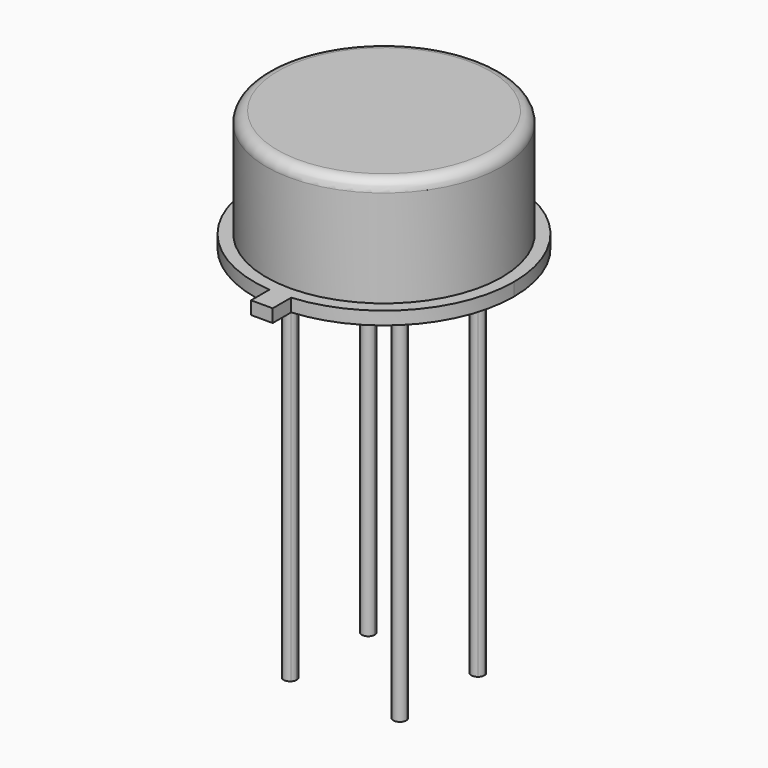
from build123d import *

# Parameters (mm, degrees)
F0_R     = 4.075
F1_DEPTH = 0.45
F2_DEPTH = 4.2
F3_DEPTH = 13
F4_R     = 0.38627417


with BuildPart() as f1:
    # F0 (on Top) → F1 (new body)
    with BuildSketch(Plane.XY):
        with BuildLine():
            ThreePointArc((0.375, -4.4843477787), (3.3119103249, -3.0465144017), (4.5, 0))
            ThreePointArc((4.5, 0), (-3.0465144017, 3.3119103249), (-0.375, -4.4843477787))
            ThreePointArc((-0.375, -4.4843477787), (0, -4.5), (0.375, -4.4843477787))
        make_face()
        Circle(F0_R, mode=Mode.SUBTRACT)
        Circle(F0_R)
        with BuildLine():
            ThreePointArc((2.0395831107, 1.5138364292), (2.4116530743, 0.7972010094), (2.54, 0))
            ThreePointArc((2.54, 0), (2.4116530743, -0.7972010094), (2.0395831107, -1.5138364292))
            ThreePointArc((2.0395831107, -1.5138364292), (2.1007978618, -1.5917433661), (2.1226128319, -1.6883914061))
            ThreePointArc((2.1226128319, -1.6883914061), (1.9851666901, -1.8956577128), (1.7407521927, -1.8496977601))
            ThreePointArc((1.7407521927, -1.8496977601), (0, -2.54), (-1.7407521927, -1.8496977601))
            ThreePointArc((-1.7407521927, -1.8496977601), (-2.0657084568, -1.8379536369), (-2.0395831107, -1.5138364292))
            ThreePointArc((-2.0395831107, -1.5138364292), (-2.54, 0), (-2.0395831107, 1.5138364292))
            ThreePointArc((-2.0395831107, 1.5138364292), (-2.0657084568, 1.8379536369), (-1.7407521927, 1.8496977601))
            ThreePointArc((-1.7407521927, 1.8496977601), (0, 2.54), (1.7407521927, 1.8496977601))
            ThreePointArc((1.7407521927, 1.8496977601), (1.9851666901, 1.8956577128), (2.1226128319, 1.6883914061))
            ThreePointArc((2.1226128319, 1.6883914061), (2.1007978618, 1.5917433661), (2.0395831107, 1.5138364292))
        make_face(mode=Mode.SUBTRACT)
        with BuildLine():
            ThreePointArc((2.0395831107, -1.5138364292), (2.4116530743, -0.7972010094), (2.54, 0))
            ThreePointArc((2.54, 0), (2.4116530743, 0.7972010094), (2.0395831107, 1.5138364292))
            ThreePointArc((2.0395831107, 1.5138364292), (1.729517207, 1.5388291752), (1.7407521927, 1.8496977601))
            ThreePointArc((1.7407521927, 1.8496977601), (0, 2.54), (-1.7407521927, 1.8496977601))
            ThreePointArc((-1.7407521927, 1.8496977601), (-1.6903465252, 1.7759452643), (-1.6726128319, 1.6883914061))
            ThreePointArc((-1.6726128319, 1.6883914061), (-1.8009647919, 1.4852063762), (-2.0395831107, 1.5138364292))
            ThreePointArc((-2.0395831107, 1.5138364292), (-2.54, 0), (-2.0395831107, -1.5138364292))
            ThreePointArc((-2.0395831107, -1.5138364292), (-1.8009647919, -1.4852063762), (-1.6726128319, -1.6883914061))
            ThreePointArc((-1.6726128319, -1.6883914061), (-1.6903465252, -1.7759452643), (-1.7407521927, -1.8496977601))
            ThreePointArc((-1.7407521927, -1.8496977601), (0, -2.54), (1.7407521927, -1.8496977601))
            ThreePointArc((1.7407521927, -1.8496977601), (1.729517207, -1.5388291752), (2.0395831107, -1.5138364292))
        make_face()
        with BuildLine():
            ThreePointArc((0.375, -4.4843477787), (0, -4.5), (-0.375, -4.4843477787))
            Line((-0.375, -4.4843477787), (-0.375, -5.2843477787))
            Line((-0.375, -5.2843477787), (0.375, -5.2843477787))
            Line((0.375, -5.2843477787), (0.375, -4.4843477787))
        make_face()
        with BuildLine():
            ThreePointArc((-2.0395831107, 1.5138364292), (-1.8976128319, 1.6883914061), (-1.7407521927, 1.8496977601))
            ThreePointArc((-1.7407521927, 1.8496977601), (-2.0657084568, 1.8379536369), (-2.0395831107, 1.5138364292))
        make_face()
        with BuildLine():
            ThreePointArc((1.7407521927, 1.8496977601), (1.8976128319, 1.6883914061), (2.0395831107, 1.5138364292))
            ThreePointArc((2.0395831107, 1.5138364292), (2.1007978618, 1.5917433661), (2.1226128319, 1.6883914061))
            ThreePointArc((2.1226128319, 1.6883914061), (1.9851666901, 1.8956577128), (1.7407521927, 1.8496977601))
        make_face()
        with BuildLine():
            ThreePointArc((2.1226128319, -1.6883914061), (2.1007978618, -1.5917433661), (2.0395831107, -1.5138364292))
            ThreePointArc((2.0395831107, -1.5138364292), (1.8976128319, -1.6883914061), (1.7407521927, -1.8496977601))
            ThreePointArc((1.7407521927, -1.8496977601), (1.9851666901, -1.8956577128), (2.1226128319, -1.6883914061))
        make_face()
        with BuildLine():
            ThreePointArc((-2.0395831107, -1.5138364292), (-2.0657084568, -1.8379536369), (-1.7407521927, -1.8496977601))
            ThreePointArc((-1.7407521927, -1.8496977601), (-1.8976128319, -1.6883914061), (-2.0395831107, -1.5138364292))
        make_face()
        with BuildLine():
            ThreePointArc((-1.6726128319, 1.6883914061), (-1.6903465252, 1.7759452643), (-1.7407521927, 1.8496977601))
            ThreePointArc((-1.7407521927, 1.8496977601), (-1.8976128319, 1.6883914061), (-2.0395831107, 1.5138364292))
            ThreePointArc((-2.0395831107, 1.5138364292), (-1.8009647919, 1.4852063762), (-1.6726128319, 1.6883914061))
        make_face()
        with BuildLine():
            ThreePointArc((1.7407521927, 1.8496977601), (1.729517207, 1.5388291752), (2.0395831107, 1.5138364292))
            ThreePointArc((2.0395831107, 1.5138364292), (1.8976128319, 1.6883914061), (1.7407521927, 1.8496977601))
        make_face()
        with BuildLine():
            ThreePointArc((1.7407521927, -1.8496977601), (1.8976128319, -1.6883914061), (2.0395831107, -1.5138364292))
            ThreePointArc((2.0395831107, -1.5138364292), (1.729517207, -1.5388291752), (1.7407521927, -1.8496977601))
        make_face()
        with BuildLine():
            ThreePointArc((-2.0395831107, -1.5138364292), (-1.8976128319, -1.6883914061), (-1.7407521927, -1.8496977601))
            ThreePointArc((-1.7407521927, -1.8496977601), (-1.6903465252, -1.7759452643), (-1.6726128319, -1.6883914061))
            ThreePointArc((-1.6726128319, -1.6883914061), (-1.8009647919, -1.4852063762), (-2.0395831107, -1.5138364292))
        make_face()
    extrude(amount=F1_DEPTH)

    # F0 (on Top) → F2 (join)
    with BuildSketch(Plane.XY):
        Circle(F0_R)
        with BuildLine():
            ThreePointArc((2.0395831107, 1.5138364292), (2.4116530743, 0.7972010094), (2.54, 0))
            ThreePointArc((2.54, 0), (2.4116530743, -0.7972010094), (2.0395831107, -1.5138364292))
            ThreePointArc((2.0395831107, -1.5138364292), (2.1007978618, -1.5917433661), (2.1226128319, -1.6883914061))
            ThreePointArc((2.1226128319, -1.6883914061), (1.9851666901, -1.8956577128), (1.7407521927, -1.8496977601))
            ThreePointArc((1.7407521927, -1.8496977601), (0, -2.54), (-1.7407521927, -1.8496977601))
            ThreePointArc((-1.7407521927, -1.8496977601), (-2.0657084568, -1.8379536369), (-2.0395831107, -1.5138364292))
            ThreePointArc((-2.0395831107, -1.5138364292), (-2.54, 0), (-2.0395831107, 1.5138364292))
            ThreePointArc((-2.0395831107, 1.5138364292), (-2.0657084568, 1.8379536369), (-1.7407521927, 1.8496977601))
            ThreePointArc((-1.7407521927, 1.8496977601), (0, 2.54), (1.7407521927, 1.8496977601))
            ThreePointArc((1.7407521927, 1.8496977601), (1.9851666901, 1.8956577128), (2.1226128319, 1.6883914061))
            ThreePointArc((2.1226128319, 1.6883914061), (2.1007978618, 1.5917433661), (2.0395831107, 1.5138364292))
        make_face(mode=Mode.SUBTRACT)
        with BuildLine():
            ThreePointArc((2.0395831107, -1.5138364292), (2.4116530743, -0.7972010094), (2.54, 0))
            ThreePointArc((2.54, 0), (2.4116530743, 0.7972010094), (2.0395831107, 1.5138364292))
            ThreePointArc((2.0395831107, 1.5138364292), (1.729517207, 1.5388291752), (1.7407521927, 1.8496977601))
            ThreePointArc((1.7407521927, 1.8496977601), (0, 2.54), (-1.7407521927, 1.8496977601))
            ThreePointArc((-1.7407521927, 1.8496977601), (-1.6903465252, 1.7759452643), (-1.6726128319, 1.6883914061))
            ThreePointArc((-1.6726128319, 1.6883914061), (-1.8009647919, 1.4852063762), (-2.0395831107, 1.5138364292))
            ThreePointArc((-2.0395831107, 1.5138364292), (-2.54, 0), (-2.0395831107, -1.5138364292))
            ThreePointArc((-2.0395831107, -1.5138364292), (-1.8009647919, -1.4852063762), (-1.6726128319, -1.6883914061))
            ThreePointArc((-1.6726128319, -1.6883914061), (-1.6903465252, -1.7759452643), (-1.7407521927, -1.8496977601))
            ThreePointArc((-1.7407521927, -1.8496977601), (0, -2.54), (1.7407521927, -1.8496977601))
            ThreePointArc((1.7407521927, -1.8496977601), (1.729517207, -1.5388291752), (2.0395831107, -1.5138364292))
        make_face()
        with BuildLine():
            ThreePointArc((1.7407521927, 1.8496977601), (1.8976128319, 1.6883914061), (2.0395831107, 1.5138364292))
            ThreePointArc((2.0395831107, 1.5138364292), (2.1007978618, 1.5917433661), (2.1226128319, 1.6883914061))
            ThreePointArc((2.1226128319, 1.6883914061), (1.9851666901, 1.8956577128), (1.7407521927, 1.8496977601))
        make_face()
        with BuildLine():
            ThreePointArc((1.7407521927, 1.8496977601), (1.729517207, 1.5388291752), (2.0395831107, 1.5138364292))
            ThreePointArc((2.0395831107, 1.5138364292), (1.8976128319, 1.6883914061), (1.7407521927, 1.8496977601))
        make_face()
        with BuildLine():
            ThreePointArc((-2.0395831107, -1.5138364292), (-1.8976128319, -1.6883914061), (-1.7407521927, -1.8496977601))
            ThreePointArc((-1.7407521927, -1.8496977601), (-1.6903465252, -1.7759452643), (-1.6726128319, -1.6883914061))
            ThreePointArc((-1.6726128319, -1.6883914061), (-1.8009647919, -1.4852063762), (-2.0395831107, -1.5138364292))
        make_face()
        with BuildLine():
            ThreePointArc((-2.0395831107, 1.5138364292), (-1.8976128319, 1.6883914061), (-1.7407521927, 1.8496977601))
            ThreePointArc((-1.7407521927, 1.8496977601), (-2.0657084568, 1.8379536369), (-2.0395831107, 1.5138364292))
        make_face()
        with BuildLine():
            ThreePointArc((-1.6726128319, 1.6883914061), (-1.6903465252, 1.7759452643), (-1.7407521927, 1.8496977601))
            ThreePointArc((-1.7407521927, 1.8496977601), (-1.8976128319, 1.6883914061), (-2.0395831107, 1.5138364292))
            ThreePointArc((-2.0395831107, 1.5138364292), (-1.8009647919, 1.4852063762), (-1.6726128319, 1.6883914061))
        make_face()
        with BuildLine():
            ThreePointArc((2.1226128319, -1.6883914061), (2.1007978618, -1.5917433661), (2.0395831107, -1.5138364292))
            ThreePointArc((2.0395831107, -1.5138364292), (1.8976128319, -1.6883914061), (1.7407521927, -1.8496977601))
            ThreePointArc((1.7407521927, -1.8496977601), (1.9851666901, -1.8956577128), (2.1226128319, -1.6883914061))
        make_face()
        with BuildLine():
            ThreePointArc((1.7407521927, -1.8496977601), (1.8976128319, -1.6883914061), (2.0395831107, -1.5138364292))
            ThreePointArc((2.0395831107, -1.5138364292), (1.729517207, -1.5388291752), (1.7407521927, -1.8496977601))
        make_face()
        with BuildLine():
            ThreePointArc((-2.0395831107, -1.5138364292), (-2.0657084568, -1.8379536369), (-1.7407521927, -1.8496977601))
            ThreePointArc((-1.7407521927, -1.8496977601), (-1.8976128319, -1.6883914061), (-2.0395831107, -1.5138364292))
        make_face()
    extrude(amount=F2_DEPTH)

    # F0 (on Top) → F3 (join)
    with BuildSketch(Plane.XY):
        with BuildLine():
            ThreePointArc((1.7407521927, 1.8496977601), (1.8976128319, 1.6883914061), (2.0395831107, 1.5138364292))
            ThreePointArc((2.0395831107, 1.5138364292), (2.1007978618, 1.5917433661), (2.1226128319, 1.6883914061))
            ThreePointArc((2.1226128319, 1.6883914061), (1.9851666901, 1.8956577128), (1.7407521927, 1.8496977601))
        make_face()
        with BuildLine():
            ThreePointArc((1.7407521927, 1.8496977601), (1.729517207, 1.5388291752), (2.0395831107, 1.5138364292))
            ThreePointArc((2.0395831107, 1.5138364292), (1.8976128319, 1.6883914061), (1.7407521927, 1.8496977601))
        make_face()
        with BuildLine():
            ThreePointArc((2.1226128319, -1.6883914061), (2.1007978618, -1.5917433661), (2.0395831107, -1.5138364292))
            ThreePointArc((2.0395831107, -1.5138364292), (1.8976128319, -1.6883914061), (1.7407521927, -1.8496977601))
            ThreePointArc((1.7407521927, -1.8496977601), (1.9851666901, -1.8956577128), (2.1226128319, -1.6883914061))
        make_face()
        with BuildLine():
            ThreePointArc((1.7407521927, -1.8496977601), (1.8976128319, -1.6883914061), (2.0395831107, -1.5138364292))
            ThreePointArc((2.0395831107, -1.5138364292), (1.729517207, -1.5388291752), (1.7407521927, -1.8496977601))
        make_face()
        with BuildLine():
            ThreePointArc((-1.6726128319, 1.6883914061), (-1.6903465252, 1.7759452643), (-1.7407521927, 1.8496977601))
            ThreePointArc((-1.7407521927, 1.8496977601), (-1.8976128319, 1.6883914061), (-2.0395831107, 1.5138364292))
            ThreePointArc((-2.0395831107, 1.5138364292), (-1.8009647919, 1.4852063762), (-1.6726128319, 1.6883914061))
        make_face()
        with BuildLine():
            ThreePointArc((-2.0395831107, 1.5138364292), (-1.8976128319, 1.6883914061), (-1.7407521927, 1.8496977601))
            ThreePointArc((-1.7407521927, 1.8496977601), (-2.0657084568, 1.8379536369), (-2.0395831107, 1.5138364292))
        make_face()
        with BuildLine():
            ThreePointArc((-2.0395831107, -1.5138364292), (-1.8976128319, -1.6883914061), (-1.7407521927, -1.8496977601))
            ThreePointArc((-1.7407521927, -1.8496977601), (-1.6903465252, -1.7759452643), (-1.6726128319, -1.6883914061))
            ThreePointArc((-1.6726128319, -1.6883914061), (-1.8009647919, -1.4852063762), (-2.0395831107, -1.5138364292))
        make_face()
        with BuildLine():
            ThreePointArc((-2.0395831107, -1.5138364292), (-2.0657084568, -1.8379536369), (-1.7407521927, -1.8496977601))
            ThreePointArc((-1.7407521927, -1.8496977601), (-1.8976128319, -1.6883914061), (-2.0395831107, -1.5138364292))
        make_face()
    extrude(amount=-F3_DEPTH)

    # F4
    f4_edges = [f1.edges().sort_by_distance(p)[0] for p in [
        (-4.075, 0, 4.2),
    ]]
    fillet(f4_edges, radius=F4_R)


solid = f1.part
